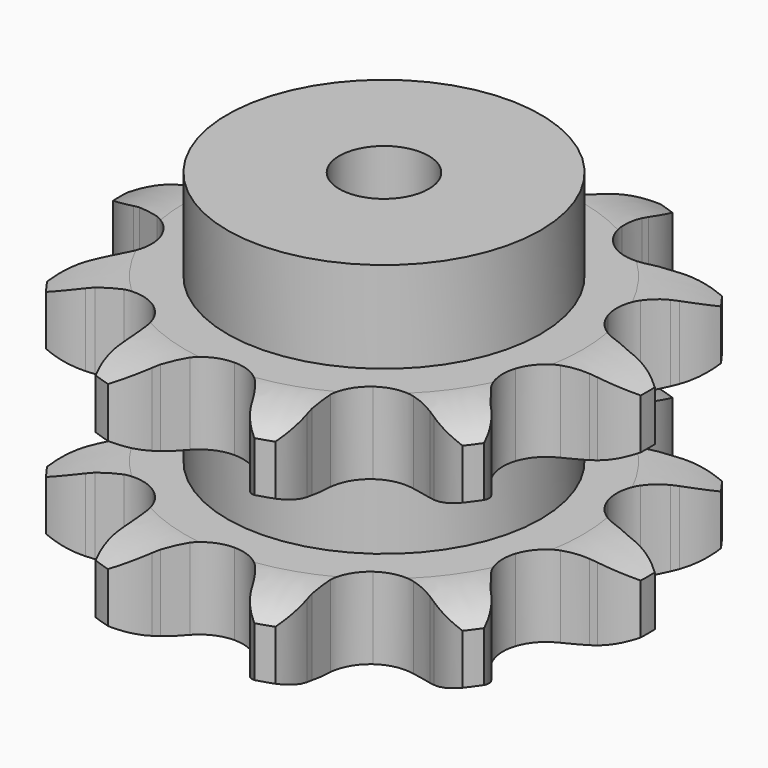
from build123d import *

# Parameters (mm, degrees)
PAD_DEPTH         = 54.6
SKETCH001_R       = 35
PAD001_DEPTH      = 75
SKETCH002_R       = 10
POCKET_DEPTH      = 0.001
POCKET_DEPTH_BACK = -75.001


with BuildPart() as part:
    # Sprocket → Pad (new body)
    with BuildSketch(Plane.XY):
        with BuildLine():
            ThreePointArc((-18.850849, 58.016946), (-14.383752, 55.107647), (-11.098642, 50.909191))
            Line((-11.098642, 50.909191), (-10.316739, 49.475079))
            ThreePointArc((-10.316739, 49.475079), (-8.904379, 47.188273), (-7.253306, 45.067376))
            ThreePointArc((-7.253306, 45.067376), (-3.985503, 42.627192), (0, 41.761854))
            ThreePointArc((0, 41.761854), (3.985503, 42.627192), (7.253306, 45.067376))
            ThreePointArc((7.253306, 45.067376), (8.904379, 47.188273), (10.316739, 49.475079))
            Line((10.316739, 49.475079), (11.098642, 50.909191))
            ThreePointArc((11.098642, 50.909191), (14.383752, 55.107647), (18.850849, 58.016946))
            ThreePointArc((18.850849, 58.016946), (20.754763, 53.03758), (20.944681, 47.710019))
            Line((20.944681, 47.710019), (20.734304, 46.090207))
            ThreePointArc((20.734304, 46.090207), (20.532777, 43.409977), (20.621891, 40.72366))
            ThreePointArc((20.621891, 40.72366), (21.831295, 36.828742), (24.547002, 33.78605))
            ThreePointArc((24.547002, 33.78605), (28.279974, 32.143503), (32.357987, 32.196887))
            Line((32.357987, 32.196887), (37.427139, 33.962152))
            ThreePointArc((37.427139, 33.962152), (38.159143, 34.324594), (38.902662, 34.662782))
            ThreePointArc((38.902662, 34.662782), (44.028162, 36.128466), (49.352162, 35.856445))
            ThreePointArc((49.352162, 35.856445), (47.965663, 30.70896), (44.987848, 26.287241))
            Line((44.987848, 26.287241), (43.865548, 25.100443))
            ThreePointArc((43.865548, 25.100443), (42.12711, 23.050546), (40.620227, 20.824889))
            ThreePointArc((40.620227, 20.824889), (39.30928, 16.962965), (39.717884, 12.905123))
            ThreePointArc((39.717884, 12.905123), (41.772456, 9.382088), (45.103017, 7.028281))
            Line((45.103017, 7.028281), (50.241644, 5.476838))
            ThreePointArc((50.241644, 5.476838), (51.046885, 5.339798), (51.847187, 5.176369))
            ThreePointArc((51.847187, 5.176369), (56.85531, 3.349439), (61.002627, 0))
            ThreePointArc((61.002627, 0), (56.85531, -3.349439), (51.847187, -5.176369))
            Line((51.847187, -5.176369), (50.241644, -5.476838))
            ThreePointArc((50.241644, -5.476838), (47.630319, -6.11341), (45.103017, -7.028281))
            ThreePointArc((45.103017, -7.028281), (41.772456, -9.382088), (39.717884, -12.905123))
            ThreePointArc((39.717884, -12.905123), (39.30928, -16.962965), (40.620227, -20.824889))
            Line((40.620227, -20.824889), (43.865548, -25.100443))
            ThreePointArc((43.865548, -25.100443), (44.436452, -25.684618), (44.987848, -26.287241))
            ThreePointArc((44.987848, -26.287241), (47.965663, -30.70896), (49.352162, -35.856445))
            ThreePointArc((49.352162, -35.856445), (44.028162, -36.128466), (38.902662, -34.662782))
            Line((38.902662, -34.662782), (37.427139, -33.962152))
            ThreePointArc((37.427139, -33.962152), (34.940365, -32.942252), (32.357987, -32.196887))
            ThreePointArc((32.357987, -32.196887), (28.279974, -32.143503), (24.547002, -33.78605))
            ThreePointArc((24.547002, -33.78605), (21.831295, -36.828742), (20.621891, -40.72366))
            Line((20.621891, -40.72366), (20.734304, -46.090207))
            ThreePointArc((20.734304, -46.090207), (20.852805, -46.898384), (20.944681, -47.710019))
            ThreePointArc((20.944681, -47.710019), (20.754763, -53.03758), (18.850849, -58.016946))
            ThreePointArc((18.850849, -58.016946), (14.383752, -55.107647), (11.098642, -50.909191))
            Line((11.098642, -50.909191), (10.316739, -49.475079))
            ThreePointArc((10.316739, -49.475079), (8.904379, -47.188273), (7.253306, -45.067376))
            ThreePointArc((7.253306, -45.067376), (3.985503, -42.627192), (0, -41.761854))
            ThreePointArc((0, -41.761854), (-3.985503, -42.627192), (-7.253306, -45.067376))
            Line((-7.253306, -45.067376), (-10.316739, -49.475079))
            ThreePointArc((-10.316739, -49.475079), (-10.695905, -50.198561), (-11.098642, -50.909191))
            ThreePointArc((-11.098642, -50.909191), (-14.383752, -55.107647), (-18.850849, -58.016946))
            ThreePointArc((-18.850849, -58.016946), (-20.754763, -53.03758), (-20.944681, -47.710019))
            Line((-20.944681, -47.710019), (-20.734304, -46.090207))
            ThreePointArc((-20.734304, -46.090207), (-20.532777, -43.409977), (-20.621891, -40.72366))
            ThreePointArc((-20.621891, -40.72366), (-21.831295, -36.828742), (-24.547002, -33.78605))
            ThreePointArc((-24.547002, -33.78605), (-28.279974, -32.143503), (-32.357987, -32.196887))
            Line((-32.357987, -32.196887), (-37.427139, -33.962152))
            ThreePointArc((-37.427139, -33.962152), (-38.159143, -34.324594), (-38.902662, -34.662782))
            ThreePointArc((-38.902662, -34.662782), (-44.028162, -36.128466), (-49.352162, -35.856445))
            ThreePointArc((-49.352162, -35.856445), (-47.965663, -30.70896), (-44.987848, -26.287241))
            Line((-44.987848, -26.287241), (-43.865548, -25.100443))
            ThreePointArc((-43.865548, -25.100443), (-42.12711, -23.050546), (-40.620227, -20.824889))
            ThreePointArc((-40.620227, -20.824889), (-39.30928, -16.962965), (-39.717884, -12.905123))
            ThreePointArc((-39.717884, -12.905123), (-41.772456, -9.382088), (-45.103017, -7.028281))
            Line((-45.103017, -7.028281), (-50.241644, -5.476838))
            ThreePointArc((-50.241644, -5.476838), (-51.046885, -5.339798), (-51.847187, -5.176369))
            ThreePointArc((-51.847187, -5.176369), (-56.85531, -3.349439), (-61.002627, 0))
            ThreePointArc((-61.002627, 0), (-56.85531, 3.349439), (-51.847187, 5.176369))
            Line((-51.847187, 5.176369), (-50.241644, 5.476838))
            ThreePointArc((-50.241644, 5.476838), (-47.630319, 6.11341), (-45.103017, 7.028281))
            ThreePointArc((-45.103017, 7.028281), (-41.772456, 9.382088), (-39.717884, 12.905123))
            ThreePointArc((-39.717884, 12.905123), (-39.30928, 16.962965), (-40.620227, 20.824889))
            Line((-40.620227, 20.824889), (-43.865548, 25.100443))
            ThreePointArc((-43.865548, 25.100443), (-44.436452, 25.684618), (-44.987848, 26.287241))
            ThreePointArc((-44.987848, 26.287241), (-47.965663, 30.70896), (-49.352162, 35.856445))
            ThreePointArc((-49.352162, 35.856445), (-44.028162, 36.128466), (-38.902662, 34.662782))
            Line((-38.902662, 34.662782), (-37.427139, 33.962152))
            ThreePointArc((-37.427139, 33.962152), (-34.940365, 32.942252), (-32.357987, 32.196887))
            ThreePointArc((-32.357987, 32.196887), (-28.279974, 32.143503), (-24.547002, 33.78605))
            ThreePointArc((-24.547002, 33.78605), (-21.831295, 36.828742), (-20.621891, 40.72366))
            Line((-20.621891, 40.72366), (-20.734304, 46.090207))
            ThreePointArc((-20.734304, 46.090207), (-20.852805, 46.898384), (-20.944681, 47.710019))
            ThreePointArc((-20.944681, 47.710019), (-20.754763, 53.03758), (-18.850849, 58.016946))
        make_face()
    extrude(amount=PAD_DEPTH)

    # Sketch → Groove (revolve, cut)
    with BuildSketch(Plane.XZ):
        with BuildLine():
            ThreePointArc((44.398368, 0), (51.881683, 0.887302), (58.95, 3.5))
            Line((58.95, 3.5), (58.95, 14.7))
            ThreePointArc((58.95, 14.7), (51.881683, 17.312698), (44.398368, 18.2))
            Line((35, 18.2), (44.398368, 18.2))
            Line((35, 36.4), (35, 18.2))
            Line((44.398368, 36.4), (35, 36.4))
            ThreePointArc((44.398368, 36.4), (51.881683, 37.287302), (58.95, 39.9))
            Line((58.95, 39.9), (58.95, 51.1))
            ThreePointArc((58.95, 51.1), (51.881683, 53.712698), (44.398368, 54.6))
            Line((44.398368, 54.6), (68.95, 54.6))
            Line((68.95, 54.6), (68.95, 0))
            Line((44.398368, 0), (68.95, 0))
        make_face()
    revolve(axis=Axis((0, 0, 0), (0, 0, 1)), mode=Mode.SUBTRACT)

    # Sketch001 → Pad001 (join)
    with BuildSketch(Plane.XY):
        Circle(SKETCH001_R)
    extrude(amount=PAD001_DEPTH)

    # Sketch002 → Pocket (cut, two sides)
    with BuildSketch(Plane.XY) as pocket_sk:
        Circle(SKETCH002_R)
    extrude(amount=-POCKET_DEPTH, mode=Mode.SUBTRACT)
    extrude(pocket_sk.sketch, amount=-POCKET_DEPTH_BACK, mode=Mode.SUBTRACT)


solid = part.part
